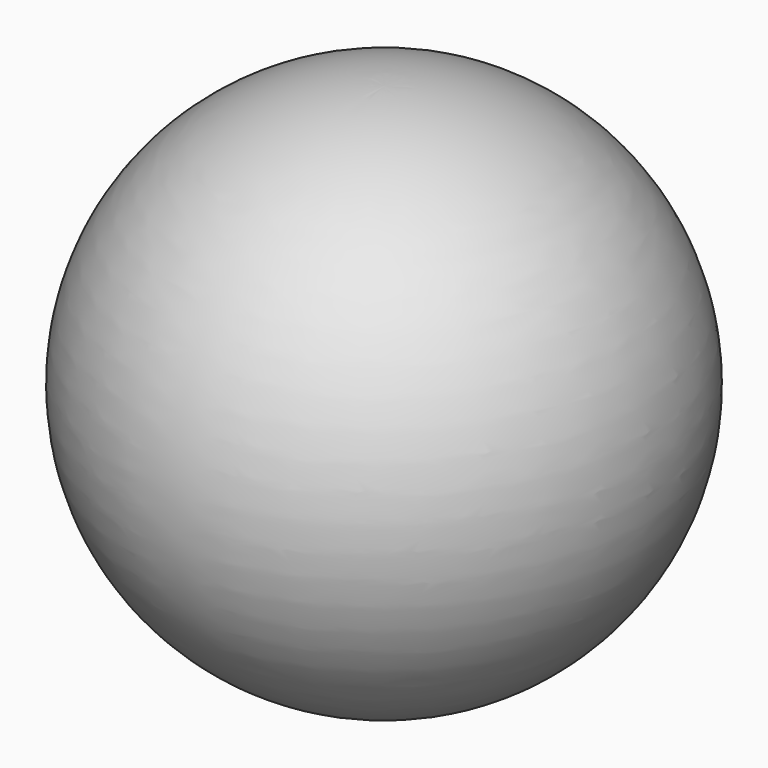
from build123d import *


with BuildPart() as f1:
    # F0 (on Right) → F1 (revolve)
    with BuildSketch(Plane.YZ):
        with BuildLine():
            Line((0, 22.976132), (0, 27.993323))
            ThreePointArc((0, 27.993323), (-28.60169, -0.405699), (0, -28.804721))
            Line((0, -28.804721), (0, -24.301674))
            ThreePointArc((0, -24.301674), (-25.091326, -0.662771), (0, 22.976132))
        make_face()
    revolve(axis=Axis((0, 0, -26.553198), (0, 0, 1)))


solid = f1.part
